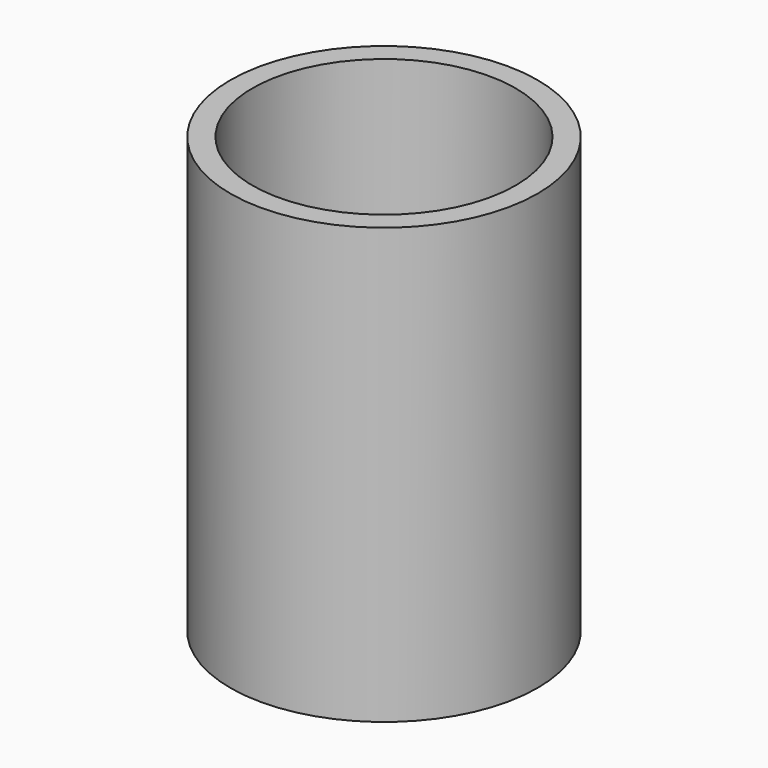
from build123d import *

# Parameters (mm, degrees)
F0_R     = 28.3464
F0_R_2   = 24.2824
F1_DEPTH = 80.264
F0_R_3   = 10.3251
F2_DEPTH = 42.926
F3_W     = 0.45157969
F3_H     = 0.45157969
F4_DEPTH = 2.54


with BuildPart() as f1:
    # F0 (on Top) → F1 (new body)
    with BuildSketch(Plane.XY):
        Circle(F0_R)
        Circle(F0_R_2, mode=Mode.SUBTRACT)
    extrude(amount=F1_DEPTH)


with BuildPart() as f2:
    # F0 (on Top) → F2 (new body)
    with BuildSketch(Plane.XY):
        Circle(F0_R_2)
        Circle(F0_R_3, mode=Mode.SUBTRACT)
    extrude(amount=F2_DEPTH)

    # F3 (on face) → F4 (join)
    with BuildSketch(Plane.XY.offset(42.926)):
        with BuildLine():
            Line((-0.225789845, 10.7890022919), (-0.225789845, 10.3226309125))
            ThreePointArc((-0.225789845, 10.3226309125), (0, 10.3251), (0.225789845, 10.3226309125))
            Line((0.225789845, 10.3226309125), (0.225789845, 10.7890022919))
            Line((0.225789845, 10.7890022919), (-0.225789845, 10.7890022919))
        make_face()
        with BuildLine():
            Line((0.225789845, 10.3226309125), (0.225789845, 7.7851))
            Line((0.225789845, 7.7851), (5.3247064352, 7.7851))
            Line((5.3247064352, 7.7851), (5.3247064352, 8.8461964363))
            ThreePointArc((5.3247064352, 8.8461964363), (2.871753285, 9.9176974687), (0.225789845, 10.3226309125))
        make_face()
        with BuildLine():
            Line((11.0147921368, 0), (10.3251, 0))
            ThreePointArc((10.3251, 0), (10.3226297305, -0.2258438779), (10.315220104, -0.45157969))
            Line((10.315220104, -0.45157969), (11.0147921368, -0.45157969))
            Line((11.0147921368, -0.45157969), (11.0147921368, 0))
        make_face()
        with BuildLine():
            Line((11.0147921368, -0.45157969), (10.315220104, -0.45157969))
            ThreePointArc((10.315220104, -0.45157969), (9.8465377689, -3.1069895359), (8.7063012269, -5.5504962802))
            Line((8.7063012269, -5.5504962802), (11.0147921368, -5.5504962802))
            Line((11.0147921368, -5.5504962802), (11.0147921368, -0.45157969))
        make_face()
        with BuildLine():
            Line((5.3247064352, -8.23667969), (0.225789845, -8.23667969))
            Line((0.225789845, -8.23667969), (0.225789845, -10.3226309125))
            ThreePointArc((0.225789845, -10.3226309125), (2.871753285, -9.9176974687), (5.3247064352, -8.8461964363))
            Line((5.3247064352, -8.8461964363), (5.3247064352, -8.23667969))
        make_face()
        with Locations((0, -11.0147921368)):
            Rectangle(F3_W, F3_H)
        with BuildLine():
            ThreePointArc((-8.010889845, -6.5140873422), (-9.6514287141, -3.6684620465), (-10.315220104, -0.45157969))
            Line((-10.315220104, -0.45157969), (-11.0147921368, -0.45157969))
            Line((-11.0147921368, -0.45157969), (-11.0147921368, -7.0081130458))
            Line((-11.0147921368, -7.0081130458), (-8.010889845, -7.0081130458))
            Line((-8.010889845, -7.0081130458), (-8.010889845, -6.5140873422))
        make_face()
        with BuildLine():
            Line((-8.010889845, 5.0989165902), (-8.9782369993, 5.0989165902))
            ThreePointArc((-8.9782369993, 5.0989165902), (-9.9827071692, 2.6369011328), (-10.3251, 0))
            Line((-10.3251, 0), (-8.010889845, 0))
            Line((-8.010889845, 0), (-8.010889845, 5.0989165902))
        make_face()
        with BuildLine():
            Line((-8.010889845, -0.45157969), (-10.315220104, -0.45157969))
            ThreePointArc((-10.315220104, -0.45157969), (-9.6514287141, -3.6684620465), (-8.010889845, -6.5140873422))
            Line((-8.010889845, -6.5140873422), (-8.010889845, -0.45157969))
        make_face()
        with BuildLine():
            Line((-8.010889845, 0), (-10.3251, 0))
            ThreePointArc((-10.3251, 0), (-10.3226297305, -0.2258438779), (-10.315220104, -0.45157969))
            Line((-10.315220104, -0.45157969), (-8.010889845, -0.45157969))
            Line((-8.010889845, -0.45157969), (-8.010889845, 0))
        make_face()
        with BuildLine():
            Line((10.3251, 0), (8.010889845, 0))
            Line((8.010889845, 0), (8.010889845, -0.45157969))
            Line((8.010889845, -0.45157969), (10.315220104, -0.45157969))
            ThreePointArc((10.315220104, -0.45157969), (10.3226297305, -0.2258438779), (10.3251, 0))
        make_face()
        with BuildLine():
            Line((10.315220104, -0.45157969), (8.010889845, -0.45157969))
            Line((8.010889845, -0.45157969), (8.010889845, -5.5504962802))
            Line((8.010889845, -5.5504962802), (8.7063012269, -5.5504962802))
            ThreePointArc((8.7063012269, -5.5504962802), (9.8465377689, -3.1069895359), (10.315220104, -0.45157969))
        make_face()
        with BuildLine():
            Line((8.010889845, 6.5140873422), (8.010889845, 0))
            Line((8.010889845, 0), (10.3251, 0))
            ThreePointArc((10.3251, 0), (9.7293609438, 3.4564758983), (8.010889845, 6.5140873422))
        make_face()
        with BuildLine():
            Line((-6.7823232008, 10.7890022919), (-6.7823232008, 7.7851))
            ThreePointArc((-6.7823232008, 7.7851), (-3.7266845719, 9.6290971597), (-0.225789845, 10.3226309125))
            Line((-0.225789845, 10.3226309125), (-0.225789845, 10.7890022919))
            Line((-0.225789845, 10.7890022919), (-6.7823232008, 10.7890022919))
        make_face()
        with BuildLine():
            ThreePointArc((-0.225789845, -10.3226309125), (-2.871753285, -9.9176974687), (-5.3247064352, -8.8461964363))
            Line((-5.3247064352, -8.8461964363), (-5.3247064352, -10.7890022919))
            Line((-5.3247064352, -10.7890022919), (-0.225789845, -10.7890022919))
            Line((-0.225789845, -10.7890022919), (-0.225789845, -10.3226309125))
        make_face()
        with BuildLine():
            ThreePointArc((0.225789845, -10.3226309125), (0, -10.3251), (-0.225789845, -10.3226309125))
            Line((-0.225789845, -10.3226309125), (-0.225789845, -10.7890022919))
            Line((-0.225789845, -10.7890022919), (0.225789845, -10.7890022919))
            Line((0.225789845, -10.7890022919), (0.225789845, -10.3226309125))
        make_face()
        with BuildLine():
            ThreePointArc((-0.225789845, 10.3226309125), (-3.7266845719, 9.6290971597), (-6.7823232008, 7.7851))
            Line((-6.7823232008, 7.7851), (-0.225789845, 7.7851))
            Line((-0.225789845, 7.7851), (-0.225789845, 10.3226309125))
        make_face()
        with BuildLine():
            Line((-0.225789845, 10.3226309125), (-0.225789845, 7.7851))
            Line((-0.225789845, 7.7851), (0.225789845, 7.7851))
            Line((0.225789845, 7.7851), (0.225789845, 10.3226309125))
            ThreePointArc((0.225789845, 10.3226309125), (0, 10.3251), (-0.225789845, 10.3226309125))
        make_face()
        with BuildLine():
            Line((0.225789845, -8.23667969), (-0.225789845, -8.23667969))
            Line((-0.225789845, -8.23667969), (-0.225789845, -10.3226309125))
            ThreePointArc((-0.225789845, -10.3226309125), (0, -10.3251), (0.225789845, -10.3226309125))
            Line((0.225789845, -10.3226309125), (0.225789845, -8.23667969))
        make_face()
        with BuildLine():
            Line((-0.225789845, -10.3226309125), (-0.225789845, -8.23667969))
            Line((-0.225789845, -8.23667969), (-5.3247064352, -8.23667969))
            Line((-5.3247064352, -8.23667969), (-5.3247064352, -8.8461964363))
            ThreePointArc((-5.3247064352, -8.8461964363), (-2.871753285, -9.9176974687), (-0.225789845, -10.3226309125))
        make_face()
    extrude(amount=-F4_DEPTH)


solid = Compound([f1.part, f2.part])
